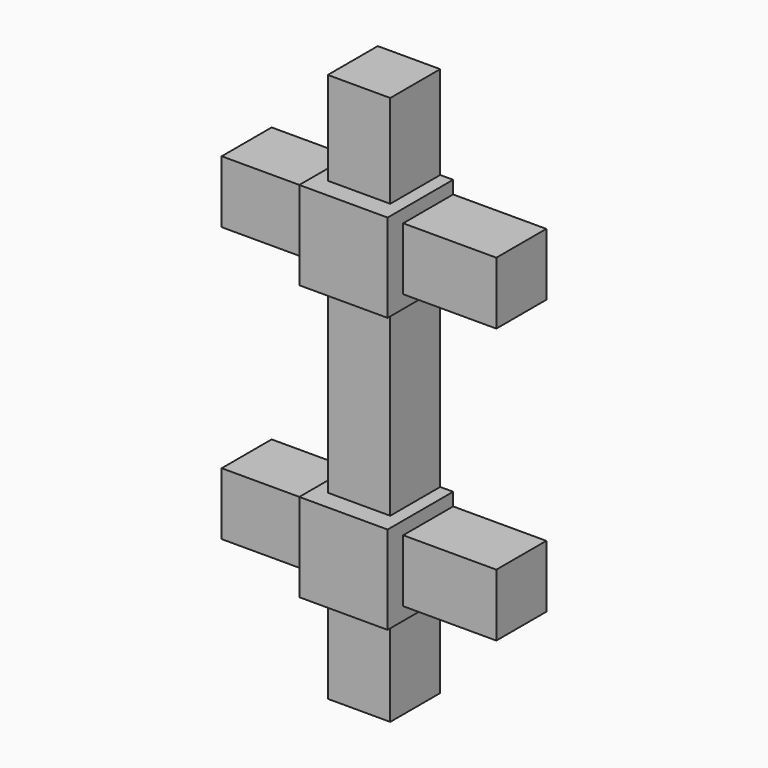
from build123d import *

# Parameters (mm, degrees)
F0_W      = 1.07834
F0_H      = 1.07834
F1_DEPTH  = 1
F2_W      = 0.7625
F2_H      = 0.7625
F3_DEPTH  = 1.1375
F4_W      = 0.7625
F4_H      = 0.7625
F5_DEPTH  = 1.1375
F6_W      = 0.7625
F6_H      = 0.7625
F7_DEPTH  = 1.1375
F8_W      = 0.7625
F8_H      = 0.7625
F9_DEPTH  = 2.275
F11_DEPTH = 1.07834
F12_W     = 0.7625
F12_H     = 0.7625
F13_DEPTH = 1.1375
F14_W     = 0.7625
F14_H     = 0.7625
F15_DEPTH = 1.1375
F16_W     = 0.7625
F16_H     = 0.7625
F17_DEPTH = 1.1375


with BuildPart() as f1:
    # F0 (on Front) → F1 (new body)
    with BuildSketch(Plane.XZ):
        Rectangle(F0_W, F0_H)
    extrude(amount=F1_DEPTH)

    # F2 (on face) → F3 (join)
    with BuildSketch(Plane(origin=(0, 0, -0.53917), x_dir=(1, 0, 0), z_dir=(0, 0, -1))):
        with Locations((0, 0.38125)):
            Rectangle(F2_W, F2_H)
    extrude(amount=F3_DEPTH)

    # F4 (on face) → F5 (join)
    with BuildSketch(Plane(origin=(-0.53917, 0, 0), x_dir=(0, -1, 0), z_dir=(-1, 0, 0))):
        with Locations((0.38125, 0)):
            Rectangle(F4_W, F4_H)
    extrude(amount=F5_DEPTH)

    # F6 (on face) → F7 (join)
    with BuildSketch(Plane.YZ.offset(0.53917)):
        with Locations((-0.38125, 0)):
            Rectangle(F6_W, F6_H)
    extrude(amount=F7_DEPTH)

    # F8 (on face) → F9 (join)
    with BuildSketch(Plane.XY.offset(0.53917)):
        with Locations((0, -0.38125)):
            Rectangle(F8_W, F8_H)
    extrude(amount=F9_DEPTH)

    # F10 (on face) → F11 (join)
    with BuildSketch(Plane.XY.offset(2.81417)):
        Polygon((0.53917, 0), (0.38125, 0), (-0.53917, 0), (-0.53917, -1), (0.53917, -1), align=None)
    extrude(amount=F11_DEPTH)

    # F12 (on face) → F13 (join)
    with BuildSketch(Plane.YZ.offset(0.53917)):
        with Locations((-0.38125, 3.35334)):
            Rectangle(F12_W, F12_H)
    extrude(amount=F13_DEPTH)

    # F14 (on face) → F15 (join)
    with BuildSketch(Plane.XY.offset(3.89251)):
        with Locations((0, -0.38125)):
            Rectangle(F14_W, F14_H)
    extrude(amount=F15_DEPTH)

    # F16 (on face) → F17 (join)
    with BuildSketch(Plane(origin=(-0.53917, 0, 0), x_dir=(0, -1, 0), z_dir=(-1, 0, 0))):
        with Locations((0.38125, 3.35334)):
            Rectangle(F16_W, F16_H)
    extrude(amount=F17_DEPTH)


solid = f1.part
